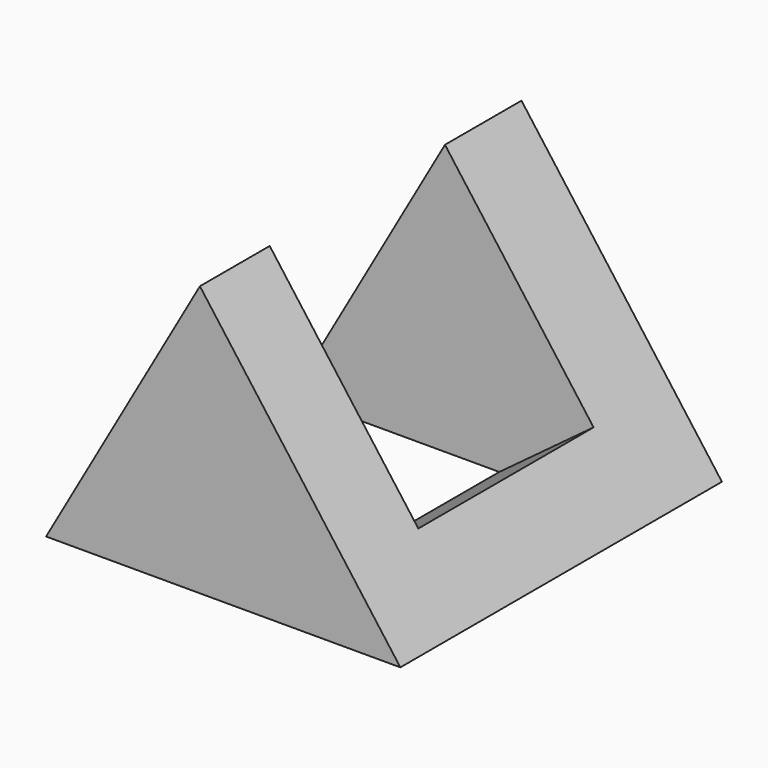
from build123d import *

# Parameters (mm, degrees)
F1_DEPTH = 25
F2_W     = 13.627150096
F2_H     = 15.5199997797
F3_DEPTH = 25
F4_R     = 3.852849114
F5_DEPTH = 25


with BuildPart() as f1:
    # F0 (on Front) → F1 (new body)
    with BuildSketch(Plane.XZ):
        Polygon((-27.6273339987, 13.7823959813), (-40.0947295129, 30.5988863111), (-49.6627315879, 13.7823959813), align=None)
    extrude(amount=-F1_DEPTH)

    # F2 (on face) → F3 (cut)
    with BuildSketch(Plane(origin=(-11.2344276136, 0, -8.3289705336), x_dir=(0, 1, 0), z_dir=(0.8033118285, 0, 0.5955586505))):
        with Locations((12.2393383645, 40.6992104239)):
            Rectangle(F2_W, F2_H)
    extrude(amount=-F3_DEPTH, mode=Mode.SUBTRACT)


with BuildPart() as f5:
    # F4 (on Right) → F5 (new body)
    with BuildSketch(Plane.YZ):
        with Locations((-33.5409045219, 28.1745772809)):
            Circle(F4_R)
    extrude(amount=-F5_DEPTH)


solid = f1.part
